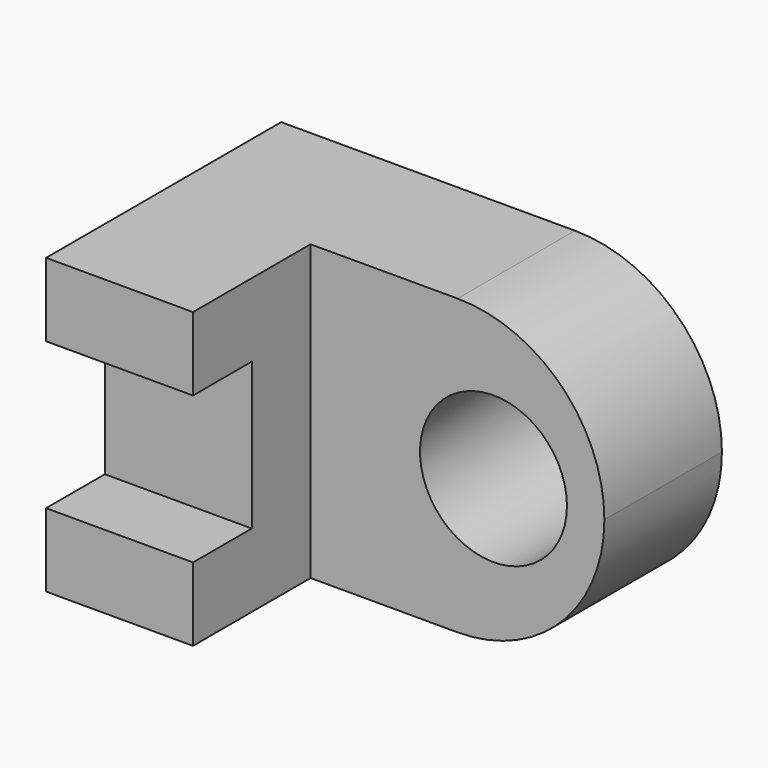
from build123d import *

# Parameters (mm, degrees)
F0_W     = 12.7
F0_H     = 25.4
F1_DEPTH = 25.4
F2_W     = 12.7
F2_H     = 25.4
F3_DEPTH = 25.4
F4_W     = 12.7
F4_H     = 12.7
F5_DEPTH = 6.35
F7_DEPTH = 25.4
F8_R     = 6.35
F9_DEPTH = 12.7


with BuildPart() as f1:
    # F0 (on Front) → F1 (new body)
    with BuildSketch(Plane.XZ):
        with Locations((6.35, 12.7)):
            Rectangle(F0_W, F0_H)
    extrude(amount=F1_DEPTH)

    # F2 (on face) → F3 (join)
    with BuildSketch(Plane.YZ.offset(12.7)):
        with Locations((-6.35, 12.7)):
            Rectangle(F2_W, F2_H)
    extrude(amount=F3_DEPTH)

    # F4 (on face) → F5 (cut)
    with BuildSketch(Plane.XZ.offset(25.4)):
        with Locations((6.35, 12.7)):
            Rectangle(F4_W, F4_H)
    extrude(amount=-F5_DEPTH, mode=Mode.SUBTRACT)

    # F6 (on face) → F7 (cut)
    with BuildSketch(Plane.XZ.offset(12.7)):
        with BuildLine():
            Line((38.1, 0), (38.1, 12.7))
            ThreePointArc((38.1, 12.7), (34.380256, 3.719744), (25.4, 0))
            Line((25.4, 0), (38.1, 0))
        make_face()
        with BuildLine():
            Line((38.1, 25.4), (25.4, 25.4))
            ThreePointArc((25.4, 25.4), (34.380256, 21.680256), (38.1, 12.7))
            Line((38.1, 12.7), (38.1, 25.4))
        make_face()
    extrude(amount=-F7_DEPTH, mode=Mode.SUBTRACT)

    # F8 (on face) → F9 (cut, through all)
    with BuildSketch(Plane.XZ.offset(12.7)):
        with Locations((28.514201, 12.7)):
            Circle(F8_R)
    extrude(amount=-F9_DEPTH, mode=Mode.SUBTRACT)


solid = f1.part
